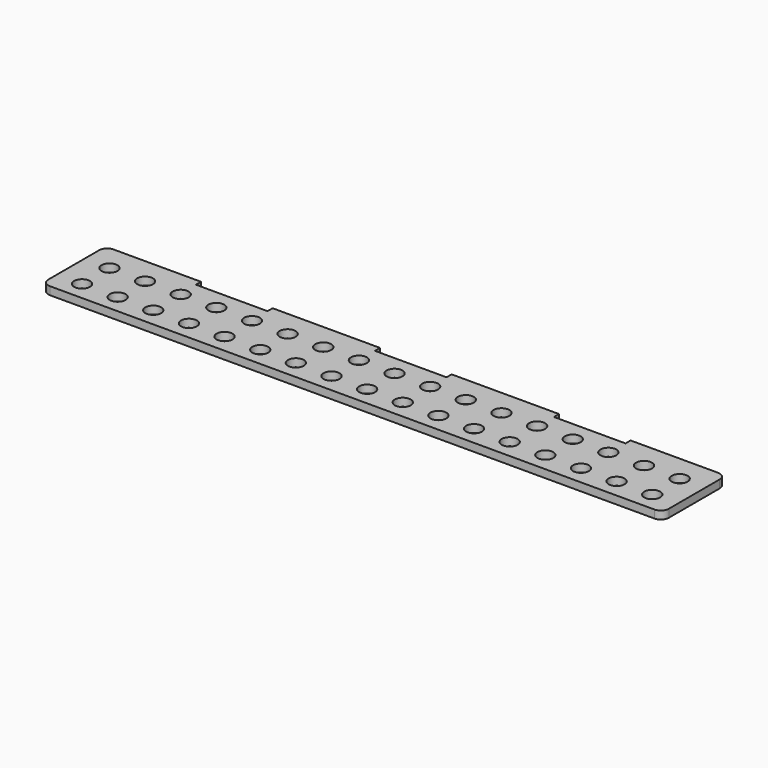
from build123d import *

# Parameters (mm, degrees)
F0_R     = 6.35
F1_DEPTH = 6.35


with BuildPart() as f1:
    # F0 (on Top) → F1 (new body)
    with BuildSketch(Plane.XY):
        with BuildLine():
            Line((76.2, 0), (6.35, 0))
            ThreePointArc((6.35, 0), (1.859872, -1.859872), (0, -6.35))
            Line((0, -6.35), (0, -57.15))
            ThreePointArc((0, -57.15), (1.859872, -61.640128), (6.35, -63.5))
            Line((6.35, -63.5), (488.95, -63.5))
            ThreePointArc((488.95, -63.5), (493.440128, -61.640128), (495.3, -57.15))
            Line((495.3, -57.15), (495.3, -6.35))
            ThreePointArc((495.3, -6.35), (493.440128, -1.859872), (488.95, 0))
            Line((488.95, 0), (419.1, 0))
            Line((419.1, 0), (419.1, -5.08))
            Line((419.1, -5.08), (361.95, -5.08))
            Line((361.95, -5.08), (361.95, 0))
            Line((361.95, 0), (276.225, 0))
            Line((276.225, 0), (276.225, -5.08))
            Line((276.225, -5.08), (219.075, -5.08))
            Line((219.075, -5.08), (219.075, 0))
            Line((219.075, 0), (133.35, 0))
            Line((133.35, 0), (133.35, -5.08))
            Line((133.35, -5.08), (76.2, -5.08))
            Line((76.2, -5.08), (76.2, 0))
        make_face()
        with Locations((20.066, -48.587607)):
            Circle(F0_R, mode=Mode.SUBTRACT)
        with Locations((48.514, -48.587607)):
            Circle(F0_R, mode=Mode.SUBTRACT)
        with Locations((76.962, -48.587607)):
            Circle(F0_R, mode=Mode.SUBTRACT)
        with Locations((105.41, -48.587607)):
            Circle(F0_R, mode=Mode.SUBTRACT)
        with Locations((133.858, -48.587607)):
            Circle(F0_R, mode=Mode.SUBTRACT)
        with Locations((162.306, -48.587607)):
            Circle(F0_R, mode=Mode.SUBTRACT)
        with Locations((190.754, -48.587607)):
            Circle(F0_R, mode=Mode.SUBTRACT)
        with Locations((219.202, -48.587607)):
            Circle(F0_R, mode=Mode.SUBTRACT)
        with Locations((247.65, -48.587607)):
            Circle(F0_R, mode=Mode.SUBTRACT)
        with Locations((276.098, -48.587607)):
            Circle(F0_R, mode=Mode.SUBTRACT)
        with Locations((304.546, -48.587607)):
            Circle(F0_R, mode=Mode.SUBTRACT)
        with Locations((332.994, -48.587607)):
            Circle(F0_R, mode=Mode.SUBTRACT)
        with Locations((361.442, -48.587607)):
            Circle(F0_R, mode=Mode.SUBTRACT)
        with Locations((389.89, -48.587607)):
            Circle(F0_R, mode=Mode.SUBTRACT)
        with Locations((418.338, -48.587607)):
            Circle(F0_R, mode=Mode.SUBTRACT)
        with Locations((446.786, -48.587607)):
            Circle(F0_R, mode=Mode.SUBTRACT)
        with Locations((475.234, -48.587607)):
            Circle(F0_R, mode=Mode.SUBTRACT)
        with Locations((20.066, -21.238256)):
            Circle(F0_R, mode=Mode.SUBTRACT)
        with Locations((48.514, -21.238256)):
            Circle(F0_R, mode=Mode.SUBTRACT)
        with Locations((76.962, -21.238256)):
            Circle(F0_R, mode=Mode.SUBTRACT)
        with Locations((105.41, -21.238256)):
            Circle(F0_R, mode=Mode.SUBTRACT)
        with Locations((133.858, -21.238256)):
            Circle(F0_R, mode=Mode.SUBTRACT)
        with Locations((162.306, -21.238256)):
            Circle(F0_R, mode=Mode.SUBTRACT)
        with Locations((190.754, -21.238256)):
            Circle(F0_R, mode=Mode.SUBTRACT)
        with Locations((219.202, -21.238256)):
            Circle(F0_R, mode=Mode.SUBTRACT)
        with Locations((247.65, -21.238256)):
            Circle(F0_R, mode=Mode.SUBTRACT)
        with Locations((276.098, -21.238256)):
            Circle(F0_R, mode=Mode.SUBTRACT)
        with Locations((304.546, -21.238256)):
            Circle(F0_R, mode=Mode.SUBTRACT)
        with Locations((332.994, -21.238256)):
            Circle(F0_R, mode=Mode.SUBTRACT)
        with Locations((361.442, -21.238256)):
            Circle(F0_R, mode=Mode.SUBTRACT)
        with Locations((389.89, -21.238256)):
            Circle(F0_R, mode=Mode.SUBTRACT)
        with Locations((418.338, -21.238256)):
            Circle(F0_R, mode=Mode.SUBTRACT)
        with Locations((446.786, -21.238256)):
            Circle(F0_R, mode=Mode.SUBTRACT)
        with Locations((475.234, -21.238256)):
            Circle(F0_R, mode=Mode.SUBTRACT)
    extrude(amount=F1_DEPTH)


solid = f1.part
